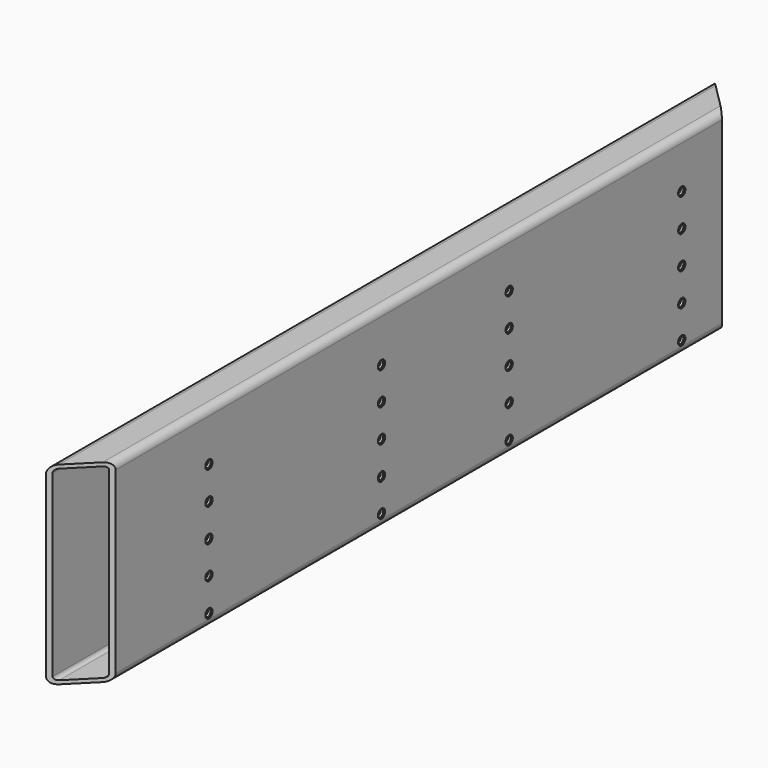
from build123d import *

# Parameters (mm, degrees)
F1_DEPTH       = 1096.09636
F3_DEPTH       = 254.001
F5_D           = 9
F5_DEPTH       = 10
F5_CBORE_D     = 12
F5_CBORE_DEPTH = 1.5


with BuildPart() as f1:
    # F0 (on Front) → F1 (new body)
    with BuildSketch(Plane.XZ):
        with BuildLine():
            Line((-41.275, 0), (-9.525, 0))
            ThreePointArc((-9.525, 0), (-2.789808, 2.789808), (0, 9.525))
            Line((0, 9.525), (0, 244.475))
            ThreePointArc((0, 244.475), (-2.789808, 251.210192), (-9.525, 254))
            Line((-9.525, 254), (-41.275, 254))
            ThreePointArc((-41.275, 254), (-48.010192, 251.210192), (-50.8, 244.475))
            Line((-50.8, 244.475), (-50.8, 9.525))
            ThreePointArc((-50.8, 9.525), (-48.010192, 2.789808), (-41.275, 0))
        make_face()
        with BuildLine():
            ThreePointArc((-46.0502, 244.5004), (-44.659016, 247.859016), (-41.3004, 249.2502))
            Line((-41.3004, 249.2502), (-9.4996, 249.2502))
            ThreePointArc((-9.4996, 249.2502), (-6.140984, 247.859016), (-4.7498, 244.5004))
            Line((-4.7498, 244.5004), (-4.7498, 9.4996))
            ThreePointArc((-4.7498, 9.4996), (-6.140984, 6.140984), (-9.4996, 4.7498))
            Line((-9.4996, 4.7498), (-41.3004, 4.7498))
            ThreePointArc((-41.3004, 4.7498), (-44.659016, 6.140984), (-46.0502, 9.4996))
            Line((-46.0502, 9.4996), (-46.0502, 244.5004))
        make_face(mode=Mode.SUBTRACT)
    extrude(amount=F1_DEPTH)

    # F2 (on face) → F3 (cut, through all)
    with BuildSketch(Plane.XY.offset(254)):
        Polygon((0, 0), (-50.8, 0), (0, -50.8), align=None)
        Polygon((0, -1045.29636), (-50.8, -1096.09636), (0, -1096.09636), align=None)
    extrude(amount=-F3_DEPTH, mode=Mode.SUBTRACT)

    # F5
    with Locations(Plane.YZ):
        with Locations((-892.43736, 188.628289), (-892.43736, 145.628289), (-892.43736, 102.628289), (-892.43736, 59.628289), (-892.43736, 16.628289), (-609.26236, 188.628289), (-609.26236, 145.628289), (-609.26236, 102.628289), (-609.26236, 59.628289), (-609.26236, 16.628289), (-399.85, 188.628509), (-399.85, 145.628289), (-399.85, 102.628289), (-399.85, 59.628289), (-399.85, 16.628289), (-116.675, 188.628509), (-116.675, 145.628289), (-116.675, 102.628289), (-116.675, 59.628289), (-116.675, 16.628289)):
            CounterBoreHole(F5_D / 2, F5_CBORE_D / 2, F5_CBORE_DEPTH, depth=F5_DEPTH)


solid = f1.part
